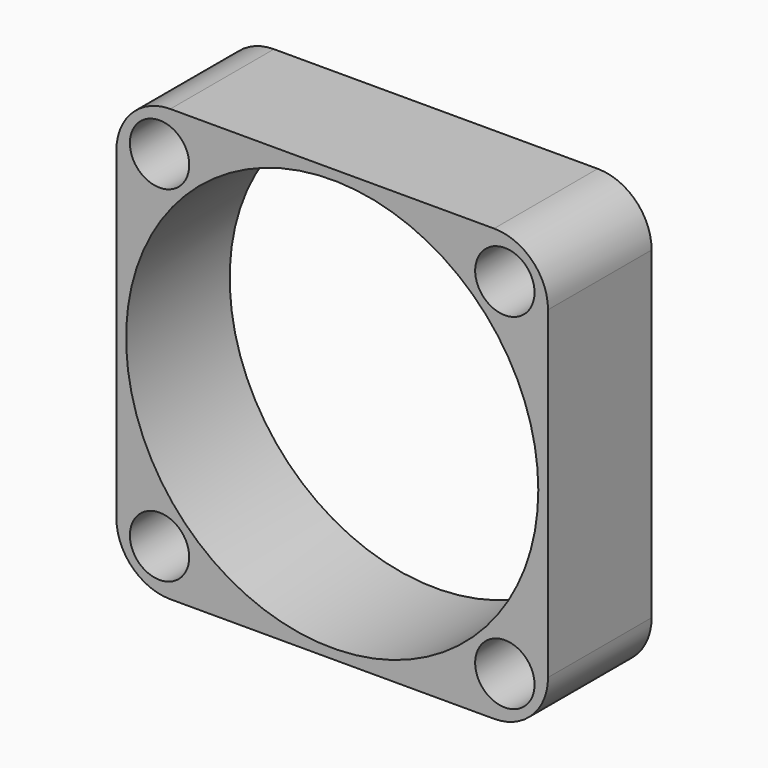
from build123d import *

# Parameters (mm, degrees)
F0_R     = 2.75
F0_R_2   = 19.1
F1_DEPTH = 12


with BuildPart() as f1:
    # F0 (on Front) → F1 (new body)
    with BuildSketch(Plane.XZ):
        with BuildLine():
            Line((15, 20), (-15, 20))
            ThreePointArc((-15, 20), (-18.535534, 18.535534), (-20, 15))
            Line((-20, 15), (-20, -15))
            ThreePointArc((-20, -15), (-18.535534, -18.535534), (-15, -20))
            Line((-15, -20), (15, -20))
            ThreePointArc((15, -20), (18.535534, -18.535534), (20, -15))
            Line((20, -15), (20, 15))
            ThreePointArc((20, 15), (18.535534, 18.535534), (15, 20))
        make_face()
        with Locations((-16, -16)):
            Circle(F0_R, mode=Mode.SUBTRACT)
        with Locations((16, -16)):
            Circle(F0_R, mode=Mode.SUBTRACT)
        with Locations((-16, 16)):
            Circle(F0_R, mode=Mode.SUBTRACT)
        Circle(F0_R_2, mode=Mode.SUBTRACT)
        with Locations((16, 16)):
            Circle(F0_R, mode=Mode.SUBTRACT)
    extrude(amount=-F1_DEPTH)


solid = f1.part
